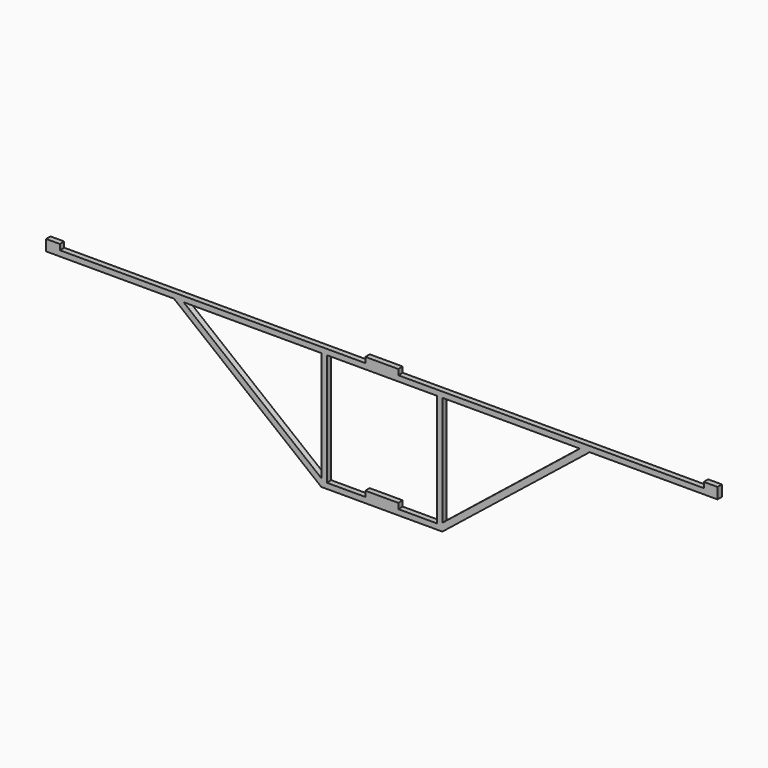
from build123d import *

# Parameters (mm, degrees)
F1_DEPTH = 2.54
F0_W     = 6.35
F0_H     = 2.54
F0_W_2   = 7.62
F2_DEPTH = 2.54


with BuildPart() as f1:
    # F0 (on Front) → F1 (new body)
    with BuildSketch(Plane.XZ):
        Polygon((-127, 2.54), (-127, 0), (-67.97675, 0), (-63.5, 0), (0, 0), (0, 2.54), (-120.65, 2.54), align=None)
        Polygon((-63.5, 0), (-67.97675, 0), (0, -54.3814), (0, -50.8), align=None)
        Polygon((20.32, 2.54), (2.54, 2.54), (2.54, 0), (27.94, 0), (27.94, 2.54), align=None)
        Polygon((0, -50.8), (0, -54.3814), (2.54, -54.3814), (2.54, -51.8414), (2.54, 0), (2.54, 2.54), (0, 2.54), (0, 0), align=None)
        Polygon((2.54, -51.8414), (2.54, -54.3814), (27.94, -54.3814), (27.94, -51.8414), (20.32, -51.8414), align=None)
        Polygon((27.94, -51.8414), (27.94, -54.3814), (53.34, -54.3814), (53.34, -51.8414), (35.56, -51.8414), align=None)
        Polygon((53.34, -51.8414), (53.34, -54.3814), (55.88, -54.3814), (55.88, -50.8), (55.88, 0), (55.88, 2.54), (53.34, 2.54), (53.34, 0), align=None)
        Polygon((27.94, 2.54), (27.94, 0), (53.34, 0), (53.34, 2.54), (35.56, 2.54), align=None)
        Polygon((119.38, 0), (123.85675, 0), (182.88, 0), (182.88, 2.54), (176.53, 2.54), (55.88, 2.54), (55.88, 0), align=None)
        Polygon((55.88, -50.8), (55.88, -54.3814), (123.85675, 0), (119.38, 0), align=None)
    extrude(amount=F1_DEPTH)

    # F0 (on Front) → F2 (join)
    with BuildSketch(Plane.XZ):
        with Locations((-123.825, 3.81)):
            Rectangle(F0_W, F0_H)
        with Locations((24.13, 3.81)):
            Rectangle(F0_W_2, F0_H)
        with Locations((31.75, 3.81)):
            Rectangle(F0_W_2, F0_H)
        with Locations((179.705, 3.81)):
            Rectangle(F0_W, F0_H)
        with Locations((24.13, -50.5714)):
            Rectangle(F0_W_2, F0_H)
        with Locations((31.75, -50.5714)):
            Rectangle(F0_W_2, F0_H)
    extrude(amount=F2_DEPTH)


solid = f1.part
